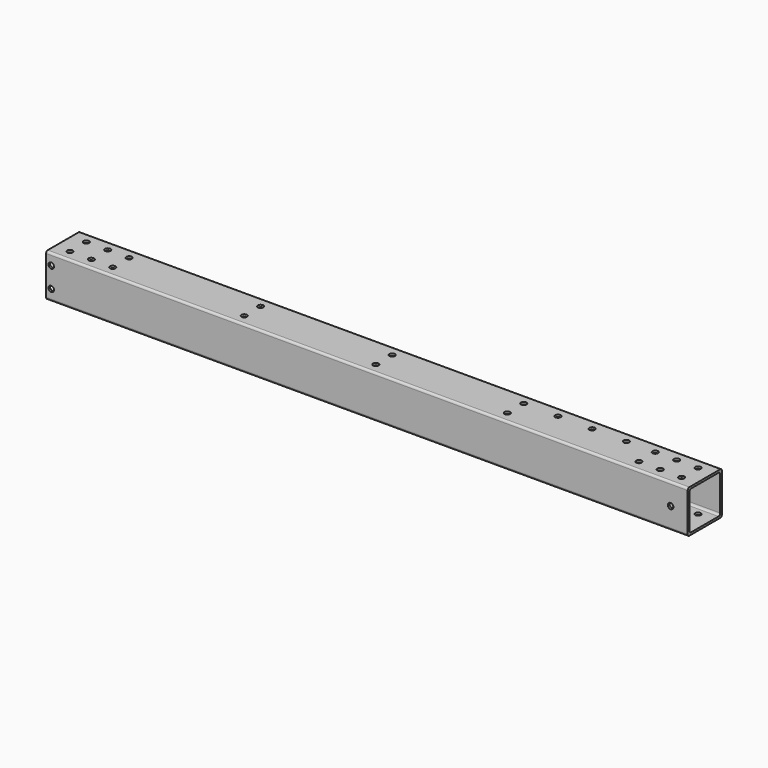
from build123d import *

# Parameters (mm, degrees)
PAD_DEPTH         = 1500
SKETCH004_R       = 4
POCKET003_DEPTH   = 50.001
SKETCH005_R       = 6.5
POCKET004_DEPTH   = 50.001
SKETCH006_R       = 6.5
POCKET_DEPTH      = 50.001
POCKET_DEPTH_BACK = -50.001


with BuildPart() as part:
    # Sketch → Pad (new body)
    with BuildSketch(Plane.YZ):
        with BuildLine():
            Line((-45, 50), (45, 50))
            ThreePointArc((50, 45), (48.535534, 48.535534), (45, 50))
            Line((50, 45), (50, -45))
            ThreePointArc((45, -50), (48.535534, -48.535534), (50, -45))
            Line((45, -50), (-45, -50))
            ThreePointArc((-50, -45), (-48.535534, -48.535534), (-45, -50))
            Line((-50, -45), (-50, 45))
            ThreePointArc((-45, 50), (-48.535534, 48.535534), (-50, 45))
        make_face()
        with BuildLine():
            Line((-40, 45), (40, 45))
            ThreePointArc((45, 40), (43.535534, 43.535534), (40, 45))
            Line((45, 40), (45, -40))
            ThreePointArc((40, -45), (43.535534, -43.535534), (45, -40))
            Line((40, -45), (-40, -45))
            ThreePointArc((-45, -40), (-43.535534, -43.535534), (-40, -45))
            Line((-45, -40), (-45, 40))
            ThreePointArc((-40, 45), (-43.535534, 43.535534), (-45, 40))
        make_face(mode=Mode.SUBTRACT)
    extrude(amount=PAD_DEPTH)

    # Sketch004 → Pocket003 (cut, through all)
    with BuildSketch(Plane.XZ):
        with Locations((880.218, 24)):
            Circle(SKETCH004_R)
        with Locations((880.218, -24)):
            Circle(SKETCH004_R)
        with Locations((820.218, 24.000003)):
            Circle(SKETCH004_R)
        with Locations((760.218, 24.000007)):
            Circle(SKETCH004_R)
        with Locations((700.218, 24.00001)):
            Circle(SKETCH004_R)
        with Locations((640.218, 24.000014)):
            Circle(SKETCH004_R)
        with Locations((580.218, 24.000017)):
            Circle(SKETCH004_R)
        with Locations((520.218, 24.00002)):
            Circle(SKETCH004_R)
        with Locations((460.218, 24.000024)):
            Circle(SKETCH004_R)
        with Locations((400.218, 24.000027)):
            Circle(SKETCH004_R)
        with Locations((340.218, 24.000031)):
            Circle(SKETCH004_R)
        with Locations((280.218, 24.000034)):
            Circle(SKETCH004_R)
        with Locations((220.218, 24.000037)):
            Circle(SKETCH004_R)
        with Locations((160.218, 24.000041)):
            Circle(SKETCH004_R)
        with Locations((100.218, 24.000044)):
            Circle(SKETCH004_R)
        with Locations((820.218, -24.000003)):
            Circle(SKETCH004_R)
        with Locations((760.218, -24.000006)):
            Circle(SKETCH004_R)
        with Locations((700.218, -24.000009)):
            Circle(SKETCH004_R)
        with Locations((640.218, -24.000012)):
            Circle(SKETCH004_R)
        with Locations((580.218, -24.000015)):
            Circle(SKETCH004_R)
        with Locations((520.218, -24.000018)):
            Circle(SKETCH004_R)
        with Locations((460.218, -24.000021)):
            Circle(SKETCH004_R)
        with Locations((400.218, -24.000023)):
            Circle(SKETCH004_R)
        with Locations((340.218, -24.000026)):
            Circle(SKETCH004_R)
        with Locations((280.218, -24.000029)):
            Circle(SKETCH004_R)
        with Locations((220.218, -24.000032)):
            Circle(SKETCH004_R)
        with Locations((160.218, -24.000035)):
            Circle(SKETCH004_R)
        with Locations((100.218, -24.000038)):
            Circle(SKETCH004_R)
    extrude(amount=-POCKET003_DEPTH, mode=Mode.SUBTRACT)

    # Sketch005 → Pocket004 (cut, through all)
    with BuildSketch(Plane.XZ):
        with Locations((12, 24)):
            Circle(SKETCH005_R)
        with Locations((12, -24)):
            Circle(SKETCH005_R)
        with Locations((1460, 0)):
            Circle(SKETCH005_R)
    extrude(amount=POCKET004_DEPTH, mode=Mode.SUBTRACT)

    # Sketch006 → Pocket (cut, two sides)
    with BuildSketch(Plane.XY) as pocket_sk:
        with Locations((35, 24)):
            Circle(SKETCH006_R)
        with Locations((35, -24)):
            Circle(SKETCH006_R)
        with Locations((85, 24)):
            Circle(SKETCH006_R)
        with Locations((135, 24)):
            Circle(SKETCH006_R)
        with Locations((135, -24)):
            Circle(SKETCH006_R)
        with Locations((85, -24)):
            Circle(SKETCH006_R)
        with Locations((442.5, 24)):
            Circle(SKETCH006_R)
        with Locations((442.5, -24)):
            Circle(SKETCH006_R)
        with Locations((750, 24)):
            Circle(SKETCH006_R)
        with Locations((750, -24)):
            Circle(SKETCH006_R)
        with Locations((1057.5, 24)):
            Circle(SKETCH006_R)
        with Locations((1057.5, -24)):
            Circle(SKETCH006_R)
        with Locations((1365, 24)):
            Circle(SKETCH006_R)
        with Locations((1415, 24)):
            Circle(SKETCH006_R)
        with Locations((1465, 24)):
            Circle(SKETCH006_R)
        with Locations((1465, -24)):
            Circle(SKETCH006_R)
        with Locations((1415, -24)):
            Circle(SKETCH006_R)
        with Locations((1365, -24)):
            Circle(SKETCH006_R)
        with Locations((1297.5, 24)):
            Circle(SKETCH006_R)
        with Locations((1217.5, 24)):
            Circle(SKETCH006_R)
        with Locations((1137.5, 24)):
            Circle(SKETCH006_R)
    extrude(amount=-POCKET_DEPTH, mode=Mode.SUBTRACT)
    extrude(pocket_sk.sketch, amount=-POCKET_DEPTH_BACK, mode=Mode.SUBTRACT)


solid = part.part
